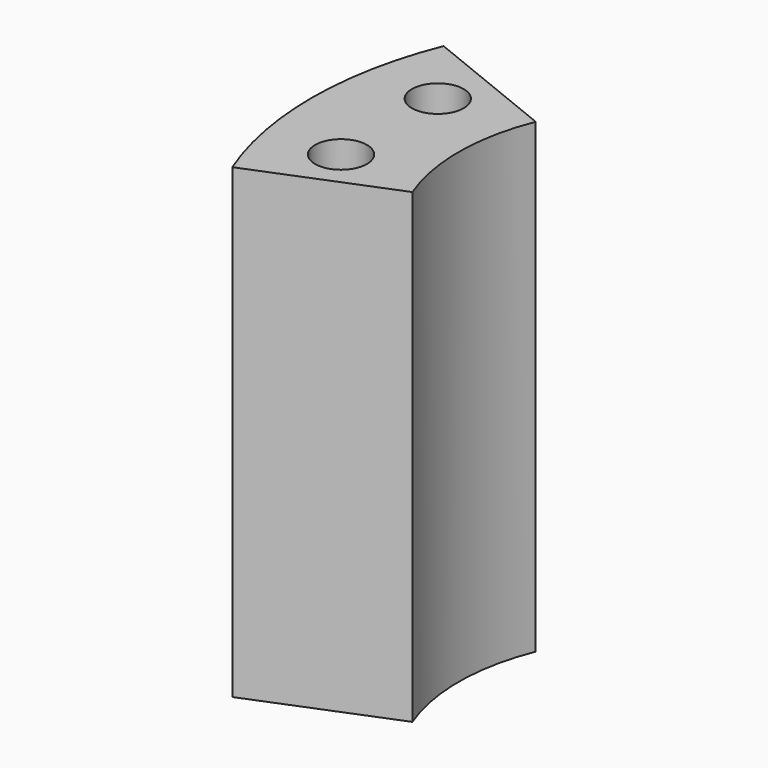
from build123d import *

# Parameters (mm, degrees)
CYLINDER860_R          = 1.5
CYLINDER860_DEPTH      = 60
CYLINDER859_R          = 1.5
CYLINDER859_DEPTH      = 60
BOX336_W               = 20
BOX336_H               = 40
BOX336_DEPTH           = 60
BOX336_PLACEMENT_ANGLE = 22
BOX410_W               = 20
BOX410_H               = 40
BOX410_DEPTH           = 60
BOX410_PLACEMENT_ANGLE = 22
BOX335_W               = 60
BOX335_H               = 40
BOX335_DEPTH           = 60
TUBE037_R              = 20.5
TUBE037_R_2            = 12
TUBE037_DEPTH          = 27
CUT469_PLACEMENT_ANGLE = 90


with BuildPart() as obj1:
    # Cylinder860 → Cylinder860 (new body)
    with BuildSketch(Plane(origin=(-3.5, 16, 0), x_dir=(1, 0, 0), z_dir=(0, 0, 1))):
        Circle(CYLINDER860_R)
    extrude(amount=CYLINDER860_DEPTH)


with BuildPart() as compound565:
    # Cylinder859 → Cylinder859 (new body)
    with BuildSketch(Plane(origin=(3.5, 16, 0), x_dir=(1, 0, 0), z_dir=(0, 0, 1))):
        Circle(CYLINDER859_R)
    extrude(amount=CYLINDER859_DEPTH)

    # Compound565: union obj1
    add(obj1.part)


with BuildPart() as krychle336:
    # Box336 → Box336 (new body)
    with BuildSketch(Plane.XY):
        with Locations((10, 20)):
            Rectangle(BOX336_W, BOX336_H)
    extrude(amount=BOX336_DEPTH)


with BuildPart() as krychle336_1:
    # Box336 placement: moved
    add(krychle336.part.rotate(Axis((0, 0, 0), (0, 0, -1)), BOX336_PLACEMENT_ANGLE))


with BuildPart() as krychle410:
    # Box410 → Box410 (new body)
    with BuildSketch(Plane.XY):
        with Locations((10, 20)):
            Rectangle(BOX410_W, BOX410_H)
    extrude(amount=BOX410_DEPTH)


with BuildPart() as krychle410_1:
    # Box410 placement: moved
    add(krychle410.part.moved(Location((-19.32, -5.18, 0))).rotate(Axis((-19.32, -5.18, 0), (0, 0, 1)), BOX410_PLACEMENT_ANGLE))


with BuildPart() as krychle335:
    # Box335 → Box335 (new body)
    with BuildSketch(Plane(origin=(-30, -35, 0), x_dir=(1, 0, 0), z_dir=(0, 0, 1))):
        with Locations((30, 20)):
            Rectangle(BOX335_W, BOX335_H)
    extrude(amount=BOX335_DEPTH)


with BuildPart() as cut469:
    # Tube037 → Tube037 (new body)
    with BuildSketch(Plane.XY.offset(23)):
        Circle(TUBE037_R)
        Circle(TUBE037_R_2, mode=Mode.SUBTRACT)
    extrude(amount=TUBE037_DEPTH)

    # Cut355: cut Krychle335
    add(krychle335.part, mode=Mode.SUBTRACT)

    # Cut357: cut Krychle410
    add(krychle410_1.part, mode=Mode.SUBTRACT)

    # Cut358: cut Krychle336
    add(krychle336_1.part, mode=Mode.SUBTRACT)

    # Cut469: cut Compound565
    add(compound565.part, mode=Mode.SUBTRACT)


with BuildPart() as cut469_1:
    # Cut469 placement: moved
    add(cut469.part.rotate(Axis((0, 0, 0), (0, 0, 1)), CUT469_PLACEMENT_ANGLE))


solid = cut469_1.part
